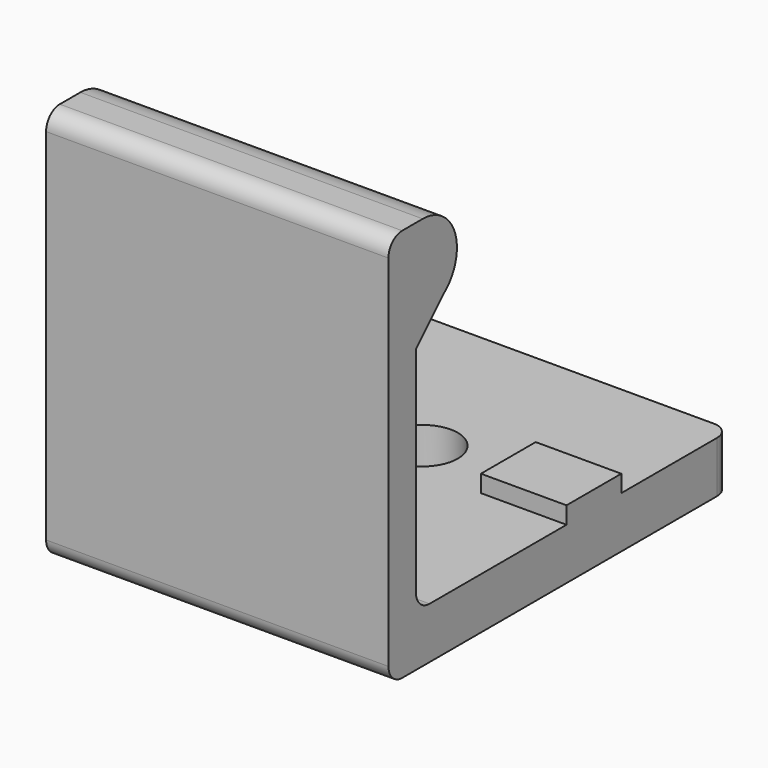
from build123d import *

# Parameters (mm, degrees)
CYLINDER009_R     = 2.05
CYLINDER009_DEPTH = 10
BOX017_W          = 20
BOX017_H          = 2
BOX017_DEPTH      = 23
BOX015_W          = 20
BOX015_H          = 25
BOX015_DEPTH      = 3
BOX018_W          = 20
BOX018_H          = 2.5
BOX018_DEPTH      = 2.5
CYLINDER008_R     = 2.5
CYLINDER008_DEPTH = 20
BOX019_W          = 5
BOX019_H          = 4
BOX019_DEPTH      = 4
BOX020_W          = 5
BOX020_H          = 4
BOX020_DEPTH      = 4
FILLET001004_R    = 1
BOX021_W          = 20
BOX021_H          = 4
BOX021_DEPTH      = 3
CHAMFER003_SIZE   = 2


with BuildPart() as cylinder009:
    # Cylinder009 → Cylinder009 (new body)
    with BuildSketch(Plane.XY):
        Circle(CYLINDER009_R)
    extrude(amount=CYLINDER009_DEPTH)


with BuildPart() as cube017:
    # Box017 → Box017 (new body)
    with BuildSketch(Plane(origin=(-10, -15, 0), x_dir=(1, 0, 0), z_dir=(0, 0, 1))):
        with Locations((10, 1)):
            Rectangle(BOX017_W, BOX017_H)
    extrude(amount=BOX017_DEPTH)


with BuildPart() as cube015:
    # Box015 → Box015 (new body)
    with BuildSketch(Plane(origin=(-10, -15, 0), x_dir=(1, 0, 0), z_dir=(0, 0, 1))):
        with Locations((10, 12.5)):
            Rectangle(BOX015_W, BOX015_H)
    extrude(amount=BOX015_DEPTH)


with BuildPart() as cube018:
    # Box018 → Box018 (new body)
    with BuildSketch(Plane(origin=(-10, -15, 20.5), x_dir=(1, 0, 0), z_dir=(0, 0, 1))):
        with Locations((10, 1.25)):
            Rectangle(BOX018_W, BOX018_H)
    extrude(amount=BOX018_DEPTH)


with BuildPart() as cylinder008:
    # Cylinder008 → Cylinder008 (new body)
    with BuildSketch(Plane(origin=(10, -12.5, 20.5), x_dir=(0, 0, 1), z_dir=(-1, 0, 0))):
        Circle(CYLINDER008_R)
    extrude(amount=CYLINDER008_DEPTH)


with BuildPart() as cube019:
    # Box019 → Box019 (new body)
    with BuildSketch(Plane(origin=(-10, -2, 0), x_dir=(1, 0, 0), z_dir=(0, 0, 1))):
        with Locations((2.5, 2)):
            Rectangle(BOX019_W, BOX019_H)
    extrude(amount=BOX019_DEPTH)


with BuildPart() as cut001002002:
    # Box020 → Box020 (new body)
    with BuildSketch(Plane(origin=(5, -2, 0), x_dir=(1, 0, 0), z_dir=(0, 0, 1))):
        with Locations((2.5, 2)):
            Rectangle(BOX020_W, BOX020_H)
    extrude(amount=BOX020_DEPTH)

    # Fusion003: union Cube017, Cube015, Cube018, Cylinder008, Cube019
    add(cube017.part)
    add(cube015.part)
    add(cube018.part)
    add(cylinder008.part)
    add(cube019.part)

    # Fillet001004
    fillet001004_edges = [cut001002002.edges().sort_by_distance(p)[0] for p in [
        (-10, 10, 1.5),
        (10, 10, 1.5),
        (0, -15, 0),
        (0, -13, 3),
        (0, -15, 23),
    ]]
    fillet(fillet001004_edges, radius=FILLET001004_R)

    # Cut001002002: cut Cylinder009
    add(cylinder009.part, mode=Mode.SUBTRACT)


with BuildPart() as fusion004:
    # Box021 → Box021 (new body)
    with BuildSketch(Plane(origin=(-10, -15, 17), x_dir=(1, 0, 0), z_dir=(0, 0, 1))):
        with Locations((10, 2)):
            Rectangle(BOX021_W, BOX021_H)
    extrude(amount=BOX021_DEPTH)

    # Chamfer003
    chamfer003_edges = [fusion004.edges().sort_by_distance(p)[0] for p in [
        (0, -11, 17),
    ]]
    chamfer(chamfer003_edges, length=CHAMFER003_SIZE)


with BuildPart() as fusion004_1:
    # Chamfer003 placement: moved
    add(fusion004.part.moved(Location((0, 0, -0.5))))

    # Fusion004: union Cut001002002
    add(cut001002002.part)


solid = fusion004_1.part
